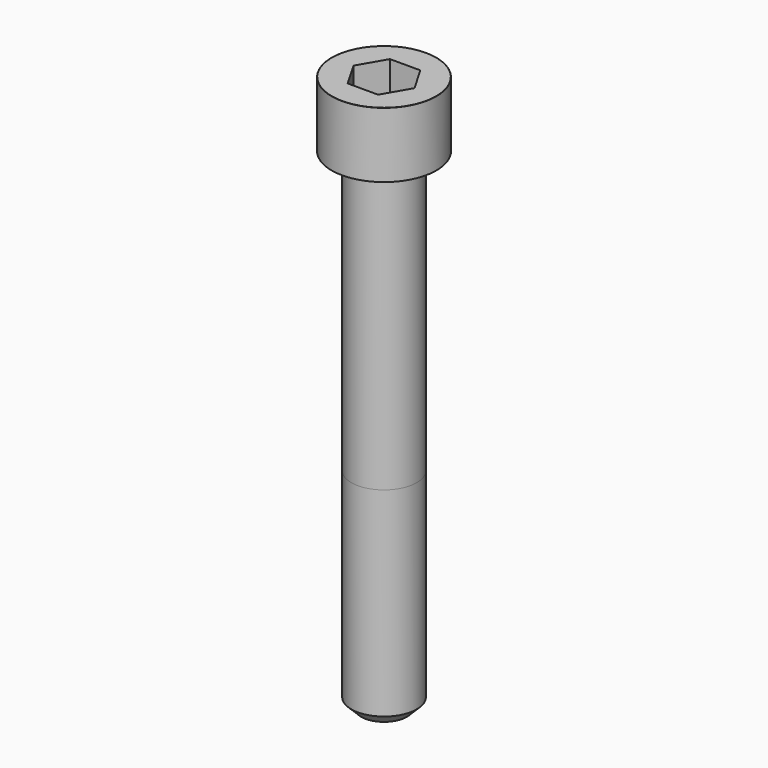
from build123d import *

# Parameters (mm, degrees)
POCKET_DEPTH = 8.07


with BuildPart() as part:
    # Sketch → Revolve (revolve)
    with BuildSketch(Plane.YZ):
        with BuildLine():
            Line((4.999, 0), (8, 0))
            Line((8, 0), (8, 9.97229))
            ThreePointArc((8, 9.97229), (7.991884, 9.991884), (7.97229, 10))
            Line((7.97229, 10), (0, 10))
            Line((0, -75), (0, 10))
            Line((3.5, -75), (0, -75))
            Line((5, -73.5), (3.5, -75))
            Line((5, -43), (5, -73.5))
            Line((4.999, 0), (5, -43))
        make_face()
    revolve(axis=Axis((0, 0, 0), (0, 0, 1)))

    # Sketch001 → Pocket (cut)
    with BuildSketch(Plane.XY.offset(10)):
        Polygon((4.659217, 0), (2.329608, 4.035), (-2.329608, 4.035), (-4.659217, 0), (-2.329608, -4.035), (2.329608, -4.035), align=None)
    extrude(amount=-POCKET_DEPTH, mode=Mode.SUBTRACT)


solid = part.part
